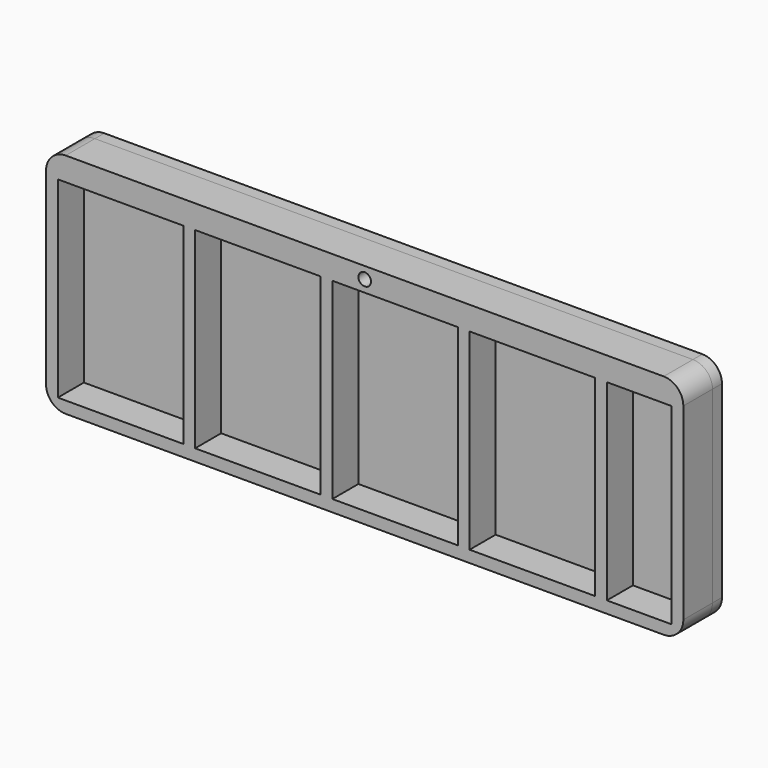
from build123d import *

# Parameters (mm, degrees)
F0_W     = 162.5
F0_H     = 58
F0_W_2   = 32
F0_H_2   = 49
F0_W_3   = 16.5
F0_R     = 1.6
F1_DEPTH = 12.3
F2_DEPTH = 4
F3_DEPTH = 5
F4_R     = 5
F5_R     = 1.6
F6_DEPTH = 3


with BuildPart() as f1:
    # F0 (on Front) → F1 (new body)
    with BuildSketch(Plane.XZ):
        with Locations((-158.718385, 26)):
            Rectangle(F0_W, F0_H)
        with Locations((-220.968385, 24.5)):
            Rectangle(F0_W_2, F0_H_2, mode=Mode.SUBTRACT)
        with Locations((-185.968385, 24.5)):
            Rectangle(F0_W_2, F0_H_2, mode=Mode.SUBTRACT)
        with Locations((-150.968385, 24.5)):
            Rectangle(F0_W_2, F0_H_2, mode=Mode.SUBTRACT)
        with Locations((-115.968385, 24.5)):
            Rectangle(F0_W_2, F0_H_2, mode=Mode.SUBTRACT)
        with Locations((-88.718385, 24.5)):
            Rectangle(F0_W_3, F0_H_2, mode=Mode.SUBTRACT)
        with Locations((-158.718385, 52)):
            Circle(F0_R, mode=Mode.SUBTRACT)
    extrude(amount=F1_DEPTH)

    # F0 (on Front) → F2 (join)
    with BuildSketch(Plane.XZ):
        with Locations((-220.968385, 24.5)):
            Rectangle(F0_W_2, F0_H_2)
        with Locations((-185.968385, 24.5)):
            Rectangle(F0_W_2, F0_H_2)
        with Locations((-150.968385, 24.5)):
            Rectangle(F0_W_2, F0_H_2)
        with Locations((-115.968385, 24.5)):
            Rectangle(F0_W_2, F0_H_2)
        with Locations((-88.718385, 24.5)):
            Rectangle(F0_W_3, F0_H_2)
    extrude(amount=F2_DEPTH)

    # F0 (on Front) → F3 (join)
    with BuildSketch(Plane.XZ):
        with Locations((-158.718385, 52)):
            Circle(F0_R)
    extrude(amount=F3_DEPTH)

    # F4
    f4_edges = [f1.edges().sort_by_distance(p)[0] for p in [
        (-77.468385, -6.15, -3),
        (-77.468385, -6.15, 55),
        (-239.968385, -6.15, -3),
        (-239.968385, -6.15, 55),
    ]]
    fillet(f4_edges, radius=F4_R)


with BuildPart() as f6:
    # F5 (on Front) → F6 (new body)
    with BuildSketch(Plane.XZ):
        with BuildLine():
            Line((-82.468385, 55), (-234.968385, 55))
            ThreePointArc((-234.968385, 55), (-238.503919, 53.535534), (-239.968385, 50))
            Line((-239.968385, 50), (-239.968385, 2))
            ThreePointArc((-239.968385, 2), (-238.503919, -1.535534), (-234.968385, -3))
            Line((-234.968385, -3), (-82.468385, -3))
            ThreePointArc((-82.468385, -3), (-78.932851, -1.535534), (-77.468385, 2))
            Line((-77.468385, 2), (-77.468385, 50))
            ThreePointArc((-77.468385, 50), (-78.932851, 53.535534), (-82.468385, 55))
        make_face()
        with Locations((-158.718385, 52)):
            Circle(F5_R, mode=Mode.SUBTRACT)
    extrude(amount=F6_DEPTH)


solid = Compound([f1.part, f6.part])
